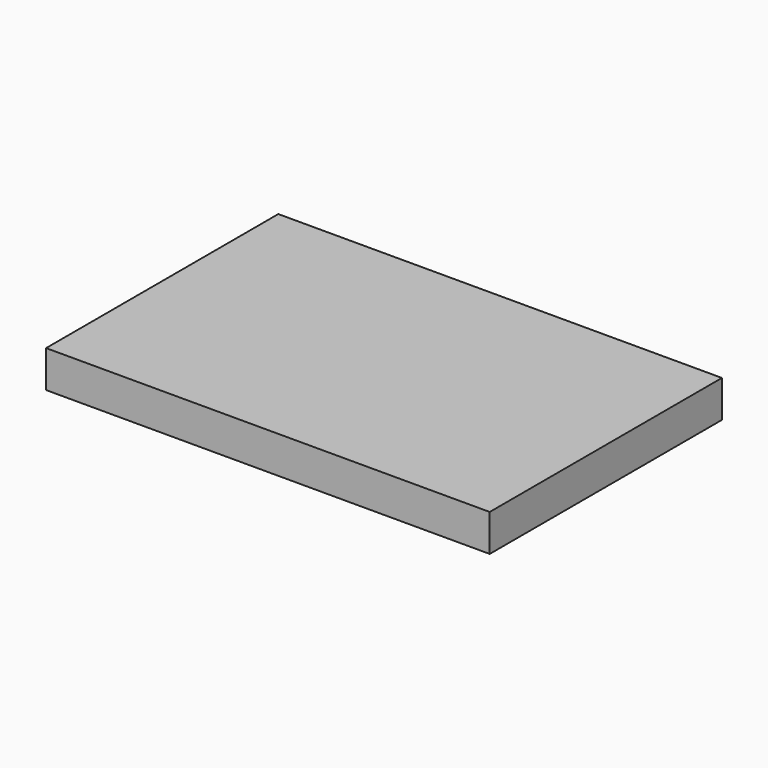
from build123d import *

# Parameters (mm, degrees)
F1_W     = 76.2
F1_H     = 49.8581454981
F2_DEPTH = 6.35
F0_W     = 76.2
F0_H     = 49.8581454981


with BuildPart() as f2:
    # F1 (on face) → F2 (new body)
    with BuildSketch(Plane.XY):
        Rectangle(F1_W, F1_H)
    extrude(amount=F2_DEPTH)


with BuildPart() as f2b:
    # F0 (on Top) → F2, piece 2 (new body)
    with BuildSketch(Plane.XY):
        Rectangle(F0_W, F0_H)
    extrude(amount=F2_DEPTH)


solid = Compound([f2.part, f2b.part])
